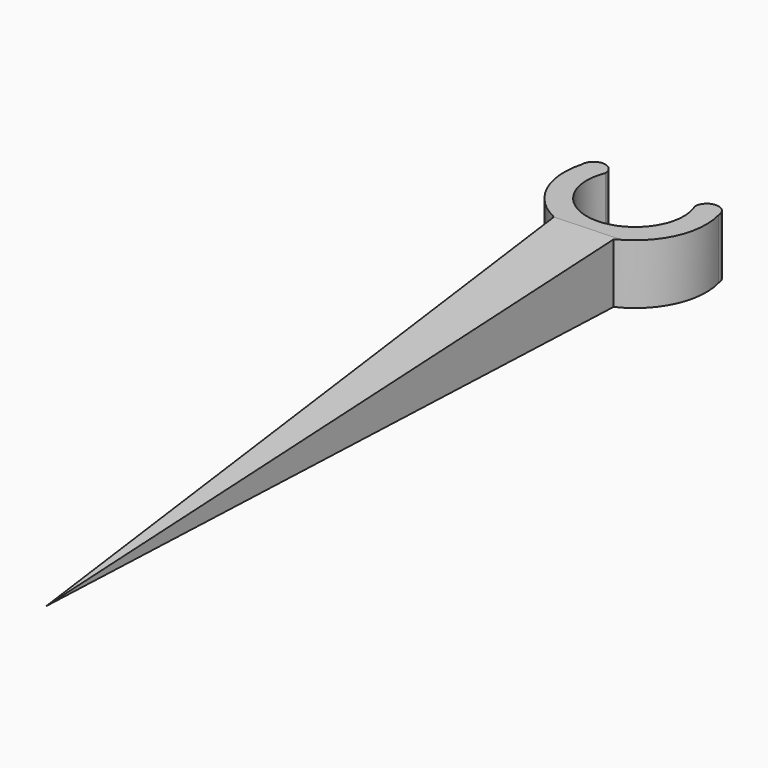
from build123d import *

# Parameters (mm, degrees)
F1_DEPTH = 8
F3_DEPTH = 15


with BuildPart() as f1:
    # F0 (on Top) → F1 (new body)
    with BuildSketch(Plane.XY):
        with BuildLine():
            ThreePointArc((6, 2.5), (0, -6.5), (-6, 2.5))
            ThreePointArc((-6, 2.5), (-7.582576, 4.082576), (-9.165151, 2.5))
            ThreePointArc((-9.165151, 2.5), (-8.615472, -4.002954), (-4, -8.616844))
            Line((-4, -8.616844), (0, -98.616844))
            Line((0, -98.616844), (4, -8.616844))
            ThreePointArc((4, -8.616844), (8.615472, -4.002954), (9.165151, 2.5))
            ThreePointArc((9.165151, 2.5), (7.582576, 4.082576), (6, 2.5))
        make_face()
    extrude(amount=F1_DEPTH)

    # F2 (on face) → F3 (intersect, symmetric)
    with BuildSketch(Plane(origin=(-4.37433, -0.194415, 0), x_dir=(0.044401, -0.999014, 0), z_dir=(-0.999014, -0.044401, 0))):
        Polygon((98.519589, 0), (8.430744, 8), (-8.569256, 8), (-8.569256, 0), (8.430744, 0), align=None)
    extrude(amount=F3_DEPTH, both=True, mode=Mode.INTERSECT)


solid = f1.part
